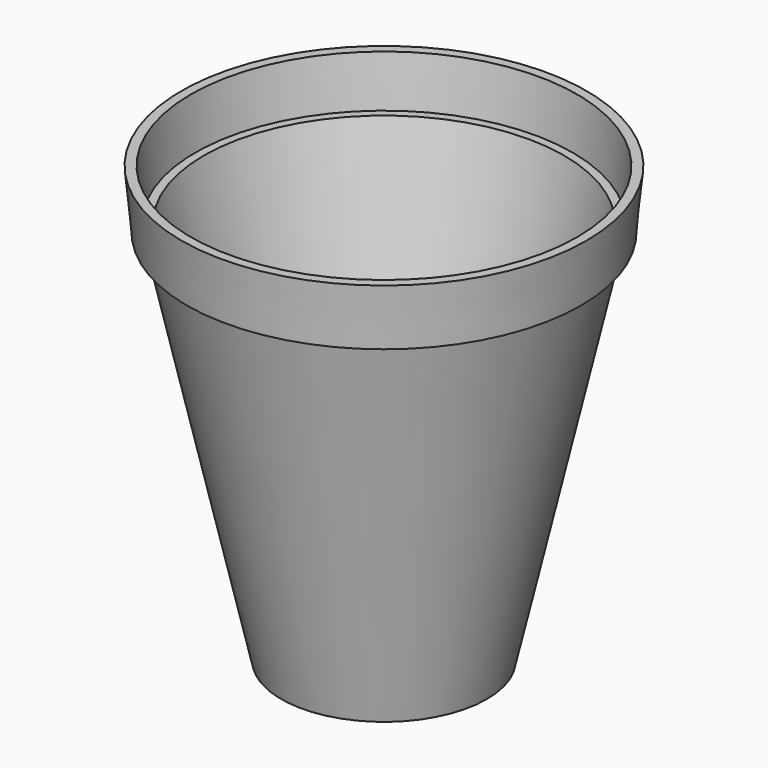
from build123d import *

# Parameters (mm, degrees)
F2_T = -1.5
F4_D = 5


with BuildPart() as f1:
    # F0 (on Front) → F1 (revolve)
    with BuildSketch(Plane.XZ):
        Polygon((-22.9846419008, 33.67621309), (-22.9846419008, -36.32378691), (-6.4846419008, -36.32378691), (7.1255733644, 24.1639146534), (8.6255733644, 24.1639146534), (9.515315591, 33.62364854), align=None)
    revolve(axis=Axis((-22.9846419008, 0, -1.32378691), (0, 0, -1)))

    # F2
    f2_openings = [f1.faces().sort_by_distance(p)[0] for p in [
        (-39.234621, 0, 33.649931),
    ]]
    offset(amount=F2_T, openings=f2_openings, kind=Kind.INTERSECTION)

    # F4 (through all)
    with Locations(Plane(origin=(0, 0, -36.32378691), x_dir=(1, 0, 0), z_dir=(0, 0, -1))):
        with Locations((-22.9846419008, 0)):
            Hole(F4_D / 2)


solid = f1.part
